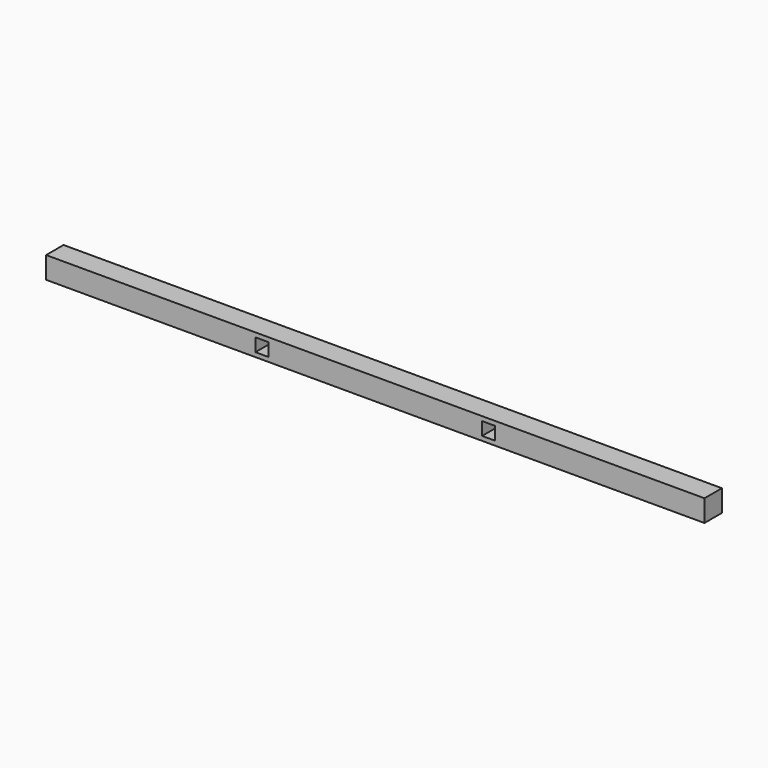
from build123d import *

# Parameters (mm, degrees)
F0_W     = 3020
F0_H     = 100
F1_DEPTH = 100
F2_W     = 60
F2_H     = 60
F3_DEPTH = 100.001


with BuildPart() as f1:
    # F0 (on Front) → F1 (new body)
    with BuildSketch(Plane.XZ):
        with Locations((1510, 50)):
            Rectangle(F0_W, F0_H)
    extrude(amount=F1_DEPTH)

    # F2 (on face) → F3 (cut, through all)
    with BuildSketch(Plane.XZ.offset(100)):
        with Locations((990, 50)):
            Rectangle(F2_W, F2_H)
        with Locations((2030, 50)):
            Rectangle(F2_W, F2_H)
    extrude(amount=-F3_DEPTH, mode=Mode.SUBTRACT)


solid = f1.part
